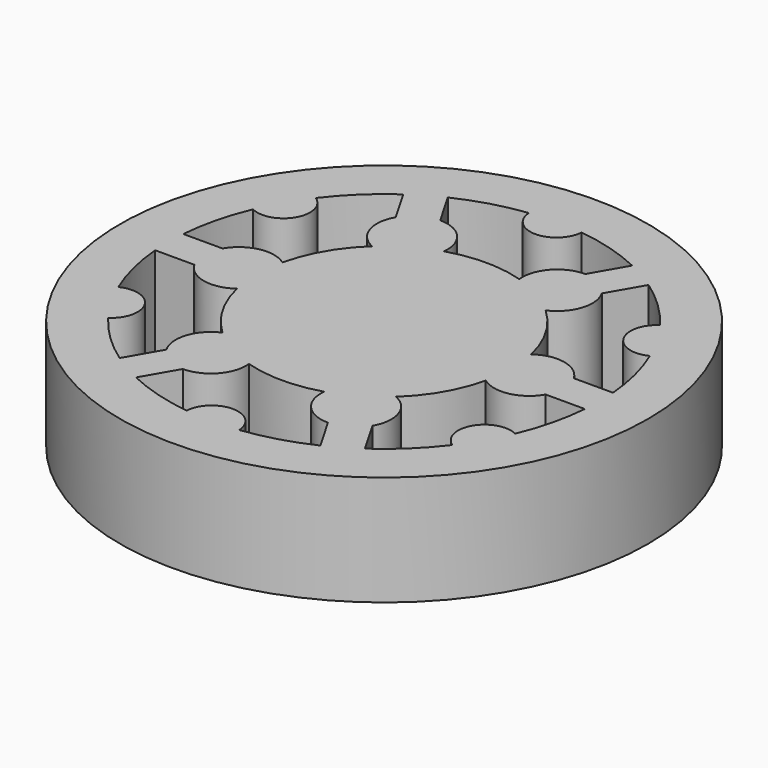
from build123d import *

# Parameters (mm, degrees)
F0_R     = 60
F1_DEPTH = 25


with BuildPart() as f1:
    # F0 (on Top) → F1 (new body)
    with BuildSketch(Plane.XY):
        Circle(F0_R)
        with BuildLine():
            ThreePointArc((-27.882333, -40.293617), (-33.934212, -35.347832), (-39.122741, -29.502731))
            ThreePointArc((-39.122741, -29.502731), (-37.239092, -21.5), (-45.111485, -19.129922))
            ThreePointArc((-45.111485, -19.129922), (-47.579227, -11.713974), (-48.836462, -4))
            Line((-48.836462, -4), (-39.928203, -4))
            ThreePointArc((-39.928203, -4), (-34.648162, -7.828382), (-28.272727, -6.453905))
            ThreePointArc((-28.272727, -6.453905), (-25.114737, -14.5), (-19.72561, -21.257947))
            ThreePointArc((-19.72561, -21.257947), (-24.103658, -26.091997), (-23.428203, -32.578838))
            Line((-23.428203, -32.578838), (-27.882333, -40.293617))
        make_face(mode=Mode.SUBTRACT)
        with BuildLine():
            ThreePointArc((20.954129, -44.293617), (13.645014, -47.061806), (5.988744, -48.632653))
            ThreePointArc((5.988744, -48.632653), (0, -43), (-5.988744, -48.632653))
            ThreePointArc((-5.988744, -48.632653), (-13.645014, -47.061806), (-20.954129, -44.293617))
            Line((-20.954129, -44.293617), (-16.5, -36.578838))
            ThreePointArc((-16.5, -36.578838), (-10.544503, -33.920379), (-8.547118, -27.711853))
            ThreePointArc((-8.547118, -27.711853), (0, -29), (8.547118, -27.711853))
            ThreePointArc((8.547118, -27.711853), (10.544503, -33.920379), (16.5, -36.578838))
            Line((16.5, -36.578838), (20.954129, -44.293617))
        make_face(mode=Mode.SUBTRACT)
        with BuildLine():
            ThreePointArc((48.836462, -4), (47.579227, -11.713974), (45.111485, -19.129922))
            ThreePointArc((45.111485, -19.129922), (37.239092, -21.5), (39.122741, -29.502731))
            ThreePointArc((39.122741, -29.502731), (33.934212, -35.347832), (27.882333, -40.293617))
            Line((27.882333, -40.293617), (23.428203, -32.578838))
            ThreePointArc((23.428203, -32.578838), (24.103658, -26.091997), (19.72561, -21.257947))
            ThreePointArc((19.72561, -21.257947), (25.114737, -14.5), (28.272727, -6.453905))
            ThreePointArc((28.272727, -6.453905), (34.648162, -7.828382), (39.928203, -4))
            Line((39.928203, -4), (48.836462, -4))
        make_face(mode=Mode.SUBTRACT)
        with BuildLine():
            ThreePointArc((-48.836462, 4), (-47.579227, 11.713974), (-45.111485, 19.129922))
            ThreePointArc((-45.111485, 19.129922), (-37.239092, 21.5), (-39.122741, 29.502731))
            ThreePointArc((-39.122741, 29.502731), (-33.934212, 35.347832), (-27.882333, 40.293617))
            Line((-27.882333, 40.293617), (-23.428203, 32.578838))
            ThreePointArc((-23.428203, 32.578838), (-24.103658, 26.091997), (-19.72561, 21.257947))
            ThreePointArc((-19.72561, 21.257947), (-25.114737, 14.5), (-28.272727, 6.453905))
            ThreePointArc((-28.272727, 6.453905), (-34.648162, 7.828382), (-39.928203, 4))
            Line((-39.928203, 4), (-48.836462, 4))
        make_face(mode=Mode.SUBTRACT)
        with BuildLine():
            ThreePointArc((-20.954129, 44.293617), (-13.645014, 47.061806), (-5.988744, 48.632653))
            ThreePointArc((-5.988744, 48.632653), (0, 43), (5.988744, 48.632653))
            ThreePointArc((5.988744, 48.632653), (13.645014, 47.061806), (20.954129, 44.293617))
            Line((20.954129, 44.293617), (16.5, 36.578838))
            ThreePointArc((16.5, 36.578838), (10.544503, 33.920379), (8.547118, 27.711853))
            ThreePointArc((8.547118, 27.711853), (0, 29), (-8.547118, 27.711853))
            ThreePointArc((-8.547118, 27.711853), (-10.544503, 33.920379), (-16.5, 36.578838))
            Line((-16.5, 36.578838), (-20.954129, 44.293617))
        make_face(mode=Mode.SUBTRACT)
        with BuildLine():
            ThreePointArc((27.882333, 40.293617), (33.934212, 35.347832), (39.122741, 29.502731))
            ThreePointArc((39.122741, 29.502731), (37.239092, 21.5), (45.111485, 19.129922))
            ThreePointArc((45.111485, 19.129922), (47.579227, 11.713974), (48.836462, 4))
            Line((48.836462, 4), (39.928203, 4))
            ThreePointArc((39.928203, 4), (34.648162, 7.828382), (28.272727, 6.453905))
            ThreePointArc((28.272727, 6.453905), (25.114737, 14.5), (19.72561, 21.257947))
            ThreePointArc((19.72561, 21.257947), (24.103658, 26.091997), (23.428203, 32.578838))
            Line((23.428203, 32.578838), (27.882333, 40.293617))
        make_face(mode=Mode.SUBTRACT)
    extrude(amount=F1_DEPTH)


solid = f1.part
